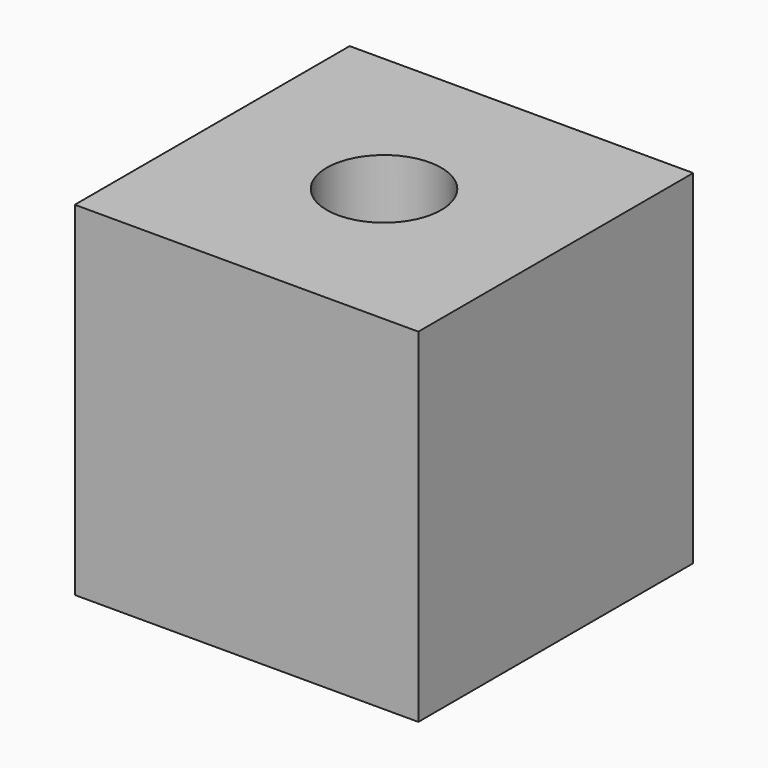
from build123d import *

# Parameters (mm, degrees)
F0_W     = 76.2
F0_H     = 76.2
F1_DEPTH = 76.2
F3_D     = 25.4


with BuildPart() as f1:
    # F0 (on Front) → F1 (new body)
    with BuildSketch(Plane.XZ):
        with Locations((0.853186, 0.038915)):
            Rectangle(F0_W, F0_H)
    extrude(amount=-F1_DEPTH)

    # F3 (through all)
    with Locations(Plane.XY.offset(38.138915)):
        with Locations((0.853186, 38.1)):
            Hole(F3_D / 2)


solid = f1.part
